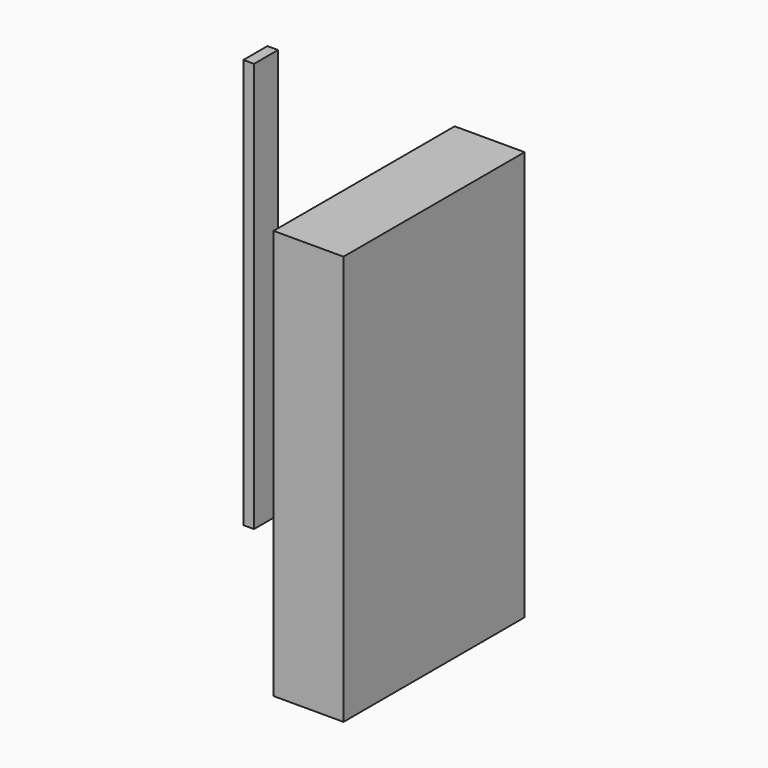
from build123d import *

# Parameters (mm, degrees)
F0_W     = 3.291217
F0_H     = 9.31374
F0_W_2   = 21.685213
F0_H_2   = 70.199661
F1_DEPTH = 127


with BuildPart() as f1:
    # F0 (on Top) → F1 (new body)
    with BuildSketch(Plane.XY):
        with Locations((-28.290236, 37.902605)):
            Rectangle(F0_W, F0_H)
        with Locations((42.590621, 2.934333)):
            Rectangle(F0_W_2, F0_H_2)
    extrude(amount=F1_DEPTH)


solid = f1.part
